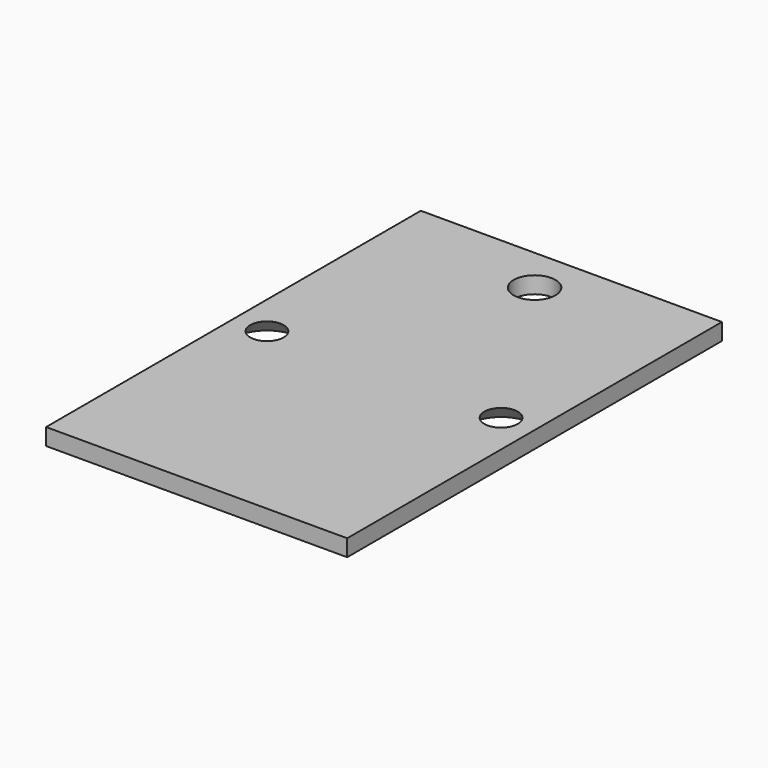
from build123d import *

# Parameters (mm, degrees)
SKETCH_W        = 36
SKETCH_H        = 56
PAD_DEPTH       = 2
SKETCH001_R     = 2
POCKET_DEPTH    = 3
CHAMFER_SIZE    = 1.99
SKETCH002_R     = 2.5
POCKET001_DEPTH = 3


with BuildPart() as part:
    # Sketch → Pad (new body)
    with BuildSketch(Plane.XY):
        Rectangle(SKETCH_W, SKETCH_H)
    extrude(amount=PAD_DEPTH)

    # Sketch001 (on Face5 of Pad) → Pocket (cut)
    with BuildSketch(Plane(origin=(0, 0, 0), x_dir=(1, 0, 0), z_dir=(0, 0, -1))):
        with Locations((14, 0)):
            Circle(SKETCH001_R)
        with Locations((-14, 0)):
            Circle(SKETCH001_R)
    extrude(amount=-POCKET_DEPTH, mode=Mode.SUBTRACT)

    # Chamfer
    chamfer_edges = [part.edges().sort_by_distance(p)[0] for p in [
        (-16, 0, 0),
        (12, 0, 0),
    ]]
    chamfer(chamfer_edges, length=CHAMFER_SIZE)

    # Sketch002 (on Face1 of Chamfer) → Pocket001 (cut)
    with BuildSketch(Plane(origin=(0, 0, 0), x_dir=(1, 0, 0), z_dir=(0, 0, -1))):
        with Locations((0, -22.5)):
            Circle(SKETCH002_R)
    extrude(amount=-POCKET001_DEPTH, mode=Mode.SUBTRACT)


solid = part.part
